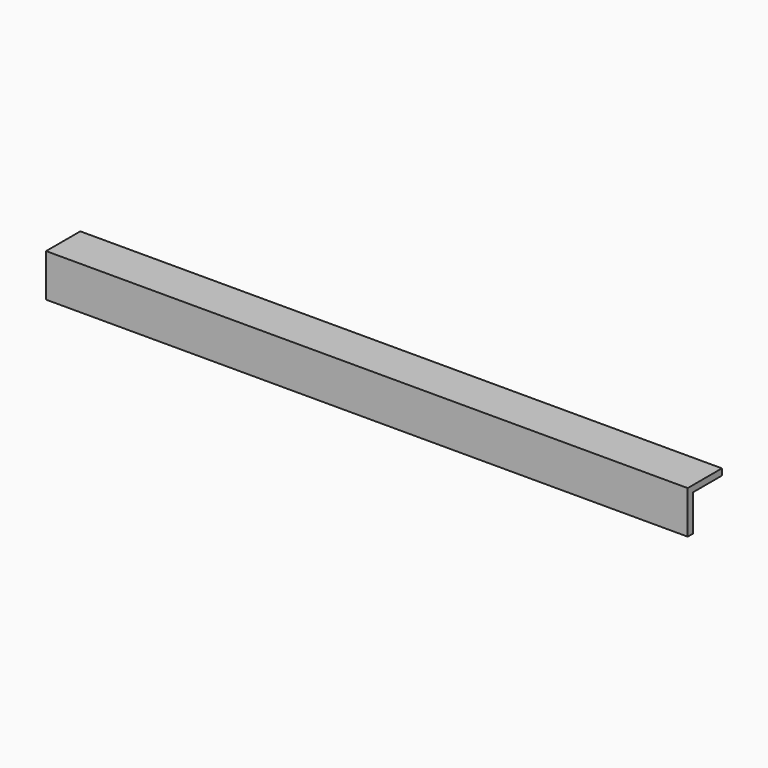
from build123d import *

# Parameters (mm, degrees)
F0_W     = 300
F0_H     = 20
F1_DEPTH = 20
F2_W     = 17
F2_H     = 17
F3_DEPTH = 300


with BuildPart() as f1:
    # F0 (on Front) → F1 (new body)
    with BuildSketch(Plane.XZ):
        with Locations((150, 10)):
            Rectangle(F0_W, F0_H)
    extrude(amount=F1_DEPTH)

    # F2 (on Right) → F3 (cut)
    with BuildSketch(Plane.YZ):
        with Locations((-8.5, 8.5)):
            Rectangle(F2_W, F2_H)
    extrude(amount=F3_DEPTH, mode=Mode.SUBTRACT)


solid = f1.part
